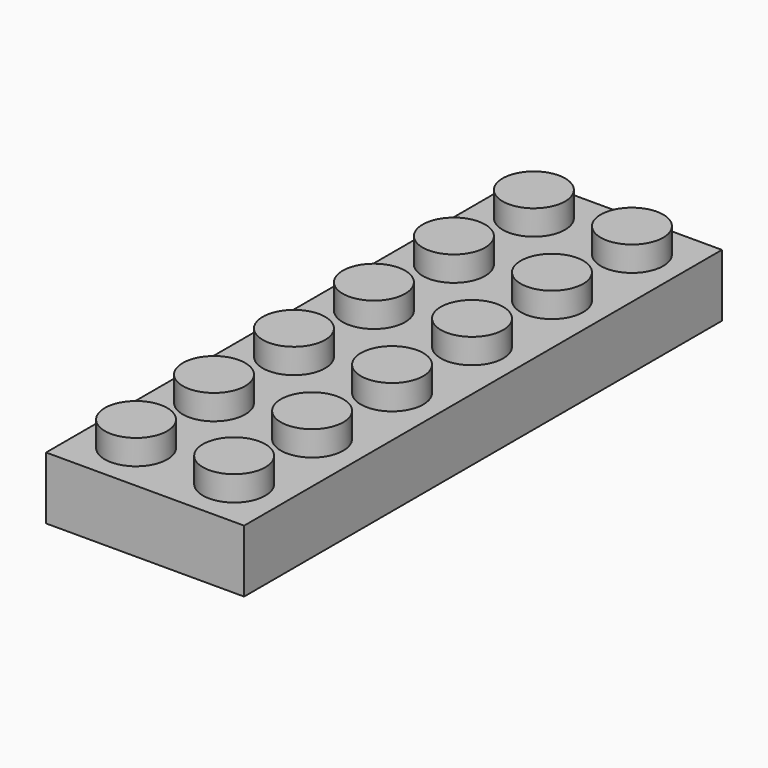
from build123d import *

# Parameters (mm, degrees)
F0_W     = 15.85
F0_H     = 47.8
F1_DEPTH = 5
F2_R     = 2.5
F3_DEPTH = 2
F4_W     = 13.33
F4_H     = 44.9
F5_DEPTH = 2.8
F7_DEPTH = 2.8


with BuildPart() as f1:
    # F0 (on Top) → F1 (new body)
    with BuildSketch(Plane.XY):
        with Locations((-44.90279, 38.503254)):
            Rectangle(F0_W, F0_H)
    extrude(amount=F1_DEPTH)

    # F2 (on face) → F3 (join)
    with BuildSketch(Plane.XY.offset(5)):
        with Locations((-48.82779, 58.403254)):
            Circle(F2_R)
        with Locations((-40.97779, 58.403254)):
            Circle(F2_R)
        with Locations((-48.82779, 18.603254)):
            Circle(F2_R)
        with Locations((-40.97779, 18.603254)):
            Circle(F2_R)
        with Locations((-48.82779, 50.403254)):
            Circle(F2_R)
        with Locations((-40.97779, 50.403254)):
            Circle(F2_R)
        with Locations((-48.82779, 26.403254)):
            Circle(F2_R)
        with Locations((-40.97779, 26.403254)):
            Circle(F2_R)
        with Locations((-48.82779, 42.403254)):
            Circle(F2_R)
        with Locations((-40.97779, 42.403254)):
            Circle(F2_R)
        with Locations((-48.82779, 34.403254)):
            Circle(F2_R)
        with Locations((-40.97779, 34.403254)):
            Circle(F2_R)
    extrude(amount=F3_DEPTH)

    # F4 (on face) → F5 (cut)
    with BuildSketch(Plane(origin=(0, 0, 0), x_dir=(1, 0, 0), z_dir=(0, 0, -1))):
        with Locations((-44.856941, -38.523254)):
            Rectangle(F4_W, F4_H)
    extrude(amount=-F5_DEPTH, mode=Mode.SUBTRACT)

    # F6 (on face) → F7 (join)
    with BuildSketch(Plane(origin=(0, 0, 2.8), x_dir=(1, 0, 0), z_dir=(0, 0, -1))):
        with BuildLine():
            ThreePointArc((-41.606941, -21.923254), (-42.558844, -19.625157), (-44.856941, -18.673254))
            Line((-44.856941, -18.673254), (-44.856941, -19.873254))
            ThreePointArc((-44.856941, -19.873254), (-43.407372, -20.473685), (-42.806941, -21.923254))
            ThreePointArc((-42.806941, -21.923254), (-43.407372, -23.372823), (-44.856941, -23.973254))
            Line((-44.856941, -23.973254), (-44.856941, -25.173254))
            ThreePointArc((-44.856941, -25.173254), (-42.558844, -24.221351), (-41.606941, -21.923254))
        make_face()
        with BuildLine():
            ThreePointArc((-41.783448, -56.322801), (-42.673771, -54.08798), (-44.856941, -53.077598))
            Line((-44.856941, -53.077598), (-44.856941, -54.279652))
            ThreePointArc((-44.856941, -54.279652), (-43.516394, -54.933528), (-42.973804, -56.32285))
            ThreePointArc((-42.973804, -56.32285), (-43.516394, -57.712172), (-44.856941, -58.366047))
            Line((-44.856941, -58.366047), (-44.856941, -59.568005))
            ThreePointArc((-44.856941, -59.568005), (-42.673771, -58.557623), (-41.783448, -56.322801))
        make_face()
        with BuildLine():
            Line((-44.856941, -54.279652), (-44.856941, -53.077598))
            ThreePointArc((-44.856941, -53.077598), (-48.283448, -56.322801), (-44.856941, -59.568005))
            Line((-44.856941, -59.568005), (-44.856941, -58.366047))
            ThreePointArc((-44.856941, -58.366047), (-47.073804, -56.32285), (-44.856941, -54.279652))
        make_face()
        with BuildLine():
            ThreePointArc((-41.739321, -47.722915), (-42.644888, -45.472108), (-44.856941, -44.475612))
            Line((-44.856941, -44.475612), (-44.856941, -45.676774))
            ThreePointArc((-44.856941, -45.676774), (-43.488929, -46.318325), (-42.932089, -47.722951))
            ThreePointArc((-42.932089, -47.722951), (-43.488929, -49.127577), (-44.856941, -49.769127))
            Line((-44.856941, -49.769127), (-44.856941, -50.970217))
            ThreePointArc((-44.856941, -50.970217), (-42.644888, -49.973722), (-41.739321, -47.722915))
        make_face()
        with BuildLine():
            Line((-44.856941, -45.676774), (-44.856941, -44.475612))
            ThreePointArc((-44.856941, -44.475612), (-48.239321, -47.722915), (-44.856941, -50.970217))
            Line((-44.856941, -50.970217), (-44.856941, -49.769127))
            ThreePointArc((-44.856941, -49.769127), (-47.032089, -47.722951), (-44.856941, -45.676774))
        make_face()
        with BuildLine():
            ThreePointArc((-41.695195, -39.123028), (-42.616104, -36.856348), (-44.856941, -35.874226))
            Line((-44.856941, -35.874226), (-44.856941, -37.07475))
            ThreePointArc((-44.856941, -37.07475), (-43.461601, -37.703287), (-42.890373, -39.123052))
            ThreePointArc((-42.890373, -39.123052), (-43.461601, -40.542817), (-44.856941, -41.171353))
            Line((-44.856941, -41.171353), (-44.856941, -42.371829))
            ThreePointArc((-44.856941, -42.371829), (-42.616104, -41.389708), (-41.695195, -39.123028))
        make_face()
        with BuildLine():
            Line((-44.856941, -37.07475), (-44.856941, -35.874226))
            ThreePointArc((-44.856941, -35.874226), (-48.195195, -39.123028), (-44.856941, -42.371829))
            Line((-44.856941, -42.371829), (-44.856941, -41.171353))
            ThreePointArc((-44.856941, -41.171353), (-46.990373, -39.123052), (-44.856941, -37.07475))
        make_face()
        with BuildLine():
            ThreePointArc((-41.651068, -30.523141), (-42.587422, -28.240698), (-44.856941, -27.273441))
            Line((-44.856941, -27.273441), (-44.856941, -28.473578))
            ThreePointArc((-44.856941, -28.473578), (-43.434414, -29.088409), (-42.848657, -30.523153))
            ThreePointArc((-42.848657, -30.523153), (-43.434414, -31.957897), (-44.856941, -32.572729))
            Line((-44.856941, -32.572729), (-44.856941, -33.772842))
            ThreePointArc((-44.856941, -33.772842), (-42.587422, -32.805584), (-41.651068, -30.523141))
        make_face()
        with BuildLine():
            Line((-44.856941, -28.473578), (-44.856941, -27.273441))
            ThreePointArc((-44.856941, -27.273441), (-48.151068, -30.523141), (-44.856941, -33.772842))
            Line((-44.856941, -33.772842), (-44.856941, -32.572729))
            ThreePointArc((-44.856941, -32.572729), (-46.948657, -30.523153), (-44.856941, -28.473578))
        make_face()
        with BuildLine():
            Line((-44.856941, -19.873254), (-44.856941, -18.673254))
            ThreePointArc((-44.856941, -18.673254), (-48.106941, -21.923254), (-44.856941, -25.173254))
            Line((-44.856941, -25.173254), (-44.856941, -23.973254))
            ThreePointArc((-44.856941, -23.973254), (-46.906941, -21.923254), (-44.856941, -19.873254))
        make_face()
    extrude(amount=F7_DEPTH)


solid = f1.part
